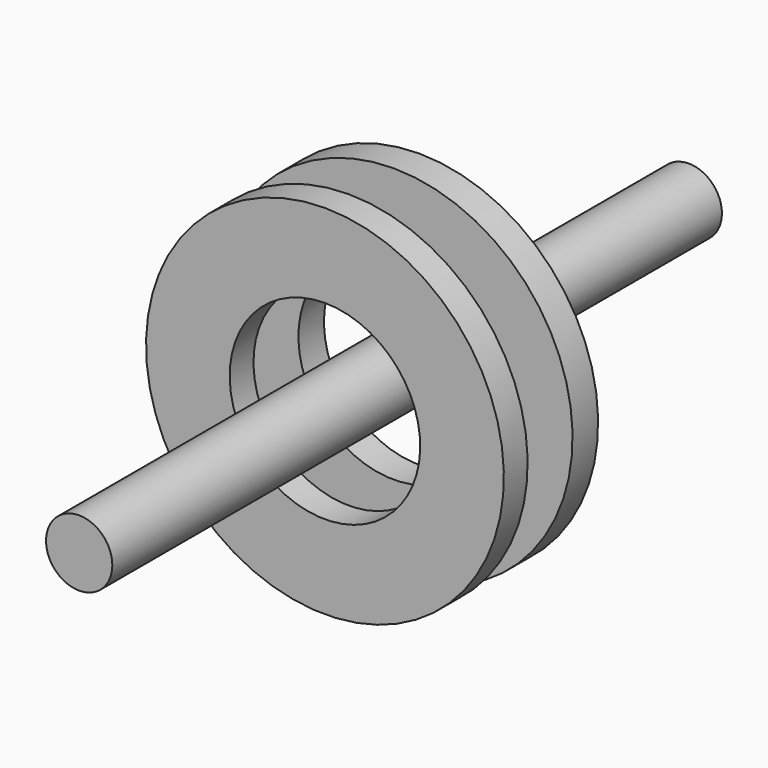
from build123d import *

# Parameters (mm, degrees)
F0_R     = 8.8389730631
F1_DEPTH = 101.6
F2_W     = 0.5872286856
F2_H     = 4.4042207301
F2_W_2   = 7.9275965691
F2_H_2   = 22.3147161305


with BuildPart() as f1:
    # F0 (on Front) → F1 (new body, symmetric)
    with BuildSketch(Plane.XZ):
        Circle(F0_R)
    extrude(amount=F1_DEPTH, both=True)


with BuildPart() as f3:
    # F2 (on Right) → F3 (revolve)
    with BuildSketch(Plane.YZ):
        with Locations((11.4509724081, 45.5102752894)):
            Rectangle(F2_W, F2_H)
        Polygon((3.229761729, 25.397669524), (11.7445867509, 25.397669524), (11.7445867509, 43.3081649244), (11.1573580652, 43.3081649244), (11.1573580652, 47.7123856544), (3.229761729, 47.7123856544), align=None)
    revolve(axis=Axis((0, 0, 0), (0, -1, 0)))


with BuildPart() as f3b:
    # F2 (on Right) → F3, piece 2 (revolve)
    with BuildSketch(Plane.YZ):
        with Locations((-15.7083850354, 36.5550275892)):
            Rectangle(F2_W_2, F2_H_2)
    revolve(axis=Axis((0, 0, 0), (0, -1, 0)))


solid = Compound([f1.part, f3.part, f3b.part])
